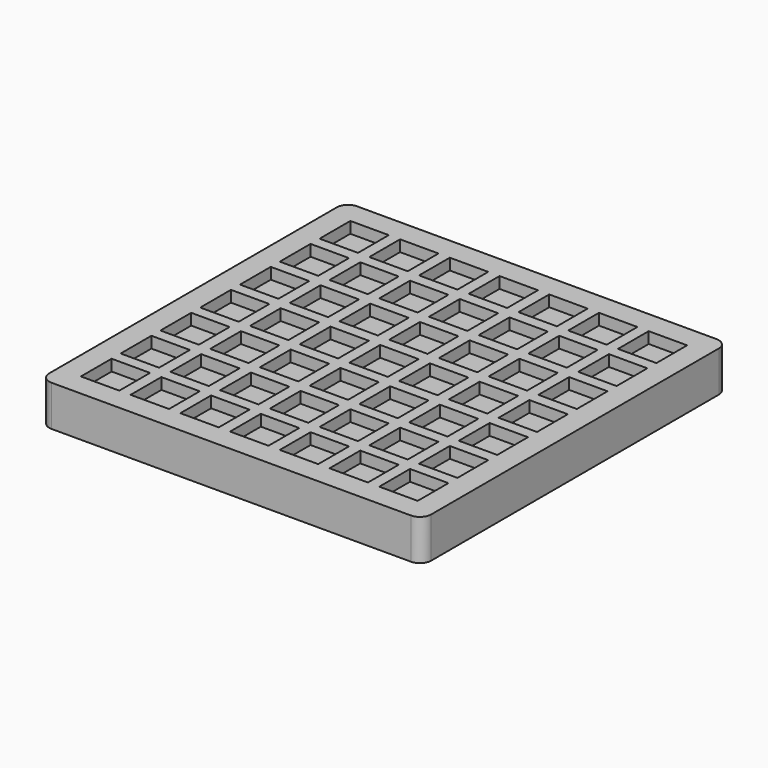
from build123d import *

# Parameters (mm, degrees)
SKETCH_W                     = 169
SKETCH_H                     = 169
PAD_DEPTH                    = 18
FILLET_R                     = 5
SKETCH001_W                  = 17
SKETCH001_H                  = 17
POCKET_DEPTH                 = 5
SKETCH001_LINEARPATTERN_2_W  = 17
SKETCH001_LINEARPATTERN_2_H  = 17
POCKET_LINEARPATTERN_2_DEPTH = 5
SKETCH001_LINEARPATTERN_3_W  = 17
SKETCH001_LINEARPATTERN_3_H  = 17
POCKET_LINEARPATTERN_3_DEPTH = 5
SKETCH001_LINEARPATTERN_4_W  = 17
SKETCH001_LINEARPATTERN_4_H  = 17
POCKET_LINEARPATTERN_4_DEPTH = 5
SKETCH001_LINEARPATTERN_5_W  = 17
SKETCH001_LINEARPATTERN_5_H  = 17
POCKET_LINEARPATTERN_5_DEPTH = 5
SKETCH001_LINEARPATTERN_6_W  = 17
SKETCH001_LINEARPATTERN_6_H  = 17
POCKET_LINEARPATTERN_6_DEPTH = 5
SKETCH001_LINEARPATTERN_7_W  = 17
SKETCH001_LINEARPATTERN_7_H  = 17
POCKET_LINEARPATTERN_7_DEPTH = 5
LINEARPATTERN001_COUNT       = 7
LINEARPATTERN001_PITCH       = 22


with BuildPart() as part:
    # Sketch → Pad (new body)
    with BuildSketch(Plane.XY):
        with Locations((84.5, 84.5)):
            Rectangle(SKETCH_W, SKETCH_H)
    extrude(amount=PAD_DEPTH)

    # Fillet
    fillet_edges = [part.edges().sort_by_distance(p)[0] for p in [
        (169, 0, 9),
        (169, 169, 9),
        (0, 0, 9),
        (0, 169, 9),
    ]]
    fillet(fillet_edges, radius=FILLET_R)

    # Sketch001 (on Face5 of Fillet) → Pocket (cut)
    with BuildSketch(Plane.XY.offset(18)):
        with Locations((18.5, 18.5)):
            Rectangle(SKETCH001_W, SKETCH001_H)
    pocket = extrude(amount=-POCKET_DEPTH, mode=Mode.SUBTRACT)

    # Sketch001 LinearPattern 2 → Pocket LinearPattern 2 (cut)
    with BuildSketch(Plane(origin=(22, 0, 18), x_dir=(1, 0, 0), z_dir=(0, 0, 1))):
        with Locations((18.5, 18.5)):
            Rectangle(SKETCH001_LINEARPATTERN_2_W, SKETCH001_LINEARPATTERN_2_H)
    pocket_linearpattern_2 = extrude(amount=-POCKET_LINEARPATTERN_2_DEPTH, mode=Mode.SUBTRACT)

    # Sketch001 LinearPattern 3 → Pocket LinearPattern 3 (cut)
    with BuildSketch(Plane(origin=(44, 0, 18), x_dir=(1, 0, 0), z_dir=(0, 0, 1))):
        with Locations((18.5, 18.5)):
            Rectangle(SKETCH001_LINEARPATTERN_3_W, SKETCH001_LINEARPATTERN_3_H)
    pocket_linearpattern_3 = extrude(amount=-POCKET_LINEARPATTERN_3_DEPTH, mode=Mode.SUBTRACT)

    # Sketch001 LinearPattern 4 → Pocket LinearPattern 4 (cut)
    with BuildSketch(Plane(origin=(66, 0, 18), x_dir=(1, 0, 0), z_dir=(0, 0, 1))):
        with Locations((18.5, 18.5)):
            Rectangle(SKETCH001_LINEARPATTERN_4_W, SKETCH001_LINEARPATTERN_4_H)
    pocket_linearpattern_4 = extrude(amount=-POCKET_LINEARPATTERN_4_DEPTH, mode=Mode.SUBTRACT)

    # Sketch001 LinearPattern 5 → Pocket LinearPattern 5 (cut)
    with BuildSketch(Plane(origin=(88, 0, 18), x_dir=(1, 0, 0), z_dir=(0, 0, 1))):
        with Locations((18.5, 18.5)):
            Rectangle(SKETCH001_LINEARPATTERN_5_W, SKETCH001_LINEARPATTERN_5_H)
    pocket_linearpattern_5 = extrude(amount=-POCKET_LINEARPATTERN_5_DEPTH, mode=Mode.SUBTRACT)

    # Sketch001 LinearPattern 6 → Pocket LinearPattern 6 (cut)
    with BuildSketch(Plane(origin=(110, 0, 18), x_dir=(1, 0, 0), z_dir=(0, 0, 1))):
        with Locations((18.5, 18.5)):
            Rectangle(SKETCH001_LINEARPATTERN_6_W, SKETCH001_LINEARPATTERN_6_H)
    pocket_linearpattern_6 = extrude(amount=-POCKET_LINEARPATTERN_6_DEPTH, mode=Mode.SUBTRACT)

    # Sketch001 LinearPattern 7 → Pocket LinearPattern 7 (cut)
    with BuildSketch(Plane(origin=(132, 0, 18), x_dir=(1, 0, 0), z_dir=(0, 0, 1))):
        with Locations((18.5, 18.5)):
            Rectangle(SKETCH001_LINEARPATTERN_7_W, SKETCH001_LINEARPATTERN_7_H)
    pocket_linearpattern_7 = extrude(amount=-POCKET_LINEARPATTERN_7_DEPTH, mode=Mode.SUBTRACT)

    # LinearPattern001: Pocket, Pocket LinearPattern 2, Pocket LinearPattern 3, Pocket LinearPattern 4, Pocket LinearPattern 5, Pocket LinearPattern 6, Pocket LinearPattern 7 ×7
    with Locations(*[(0, i * LINEARPATTERN001_PITCH, 0) for i in range(1, LINEARPATTERN001_COUNT)]):
        add(pocket, mode=Mode.SUBTRACT)
        add(pocket_linearpattern_2, mode=Mode.SUBTRACT)
        add(pocket_linearpattern_3, mode=Mode.SUBTRACT)
        add(pocket_linearpattern_4, mode=Mode.SUBTRACT)
        add(pocket_linearpattern_5, mode=Mode.SUBTRACT)
        add(pocket_linearpattern_6, mode=Mode.SUBTRACT)
        add(pocket_linearpattern_7, mode=Mode.SUBTRACT)


with BuildPart() as part_1:
    # Clone placement: moved
    add(part.part.moved(Location((1, 1, -19))))


solid = part_1.part
